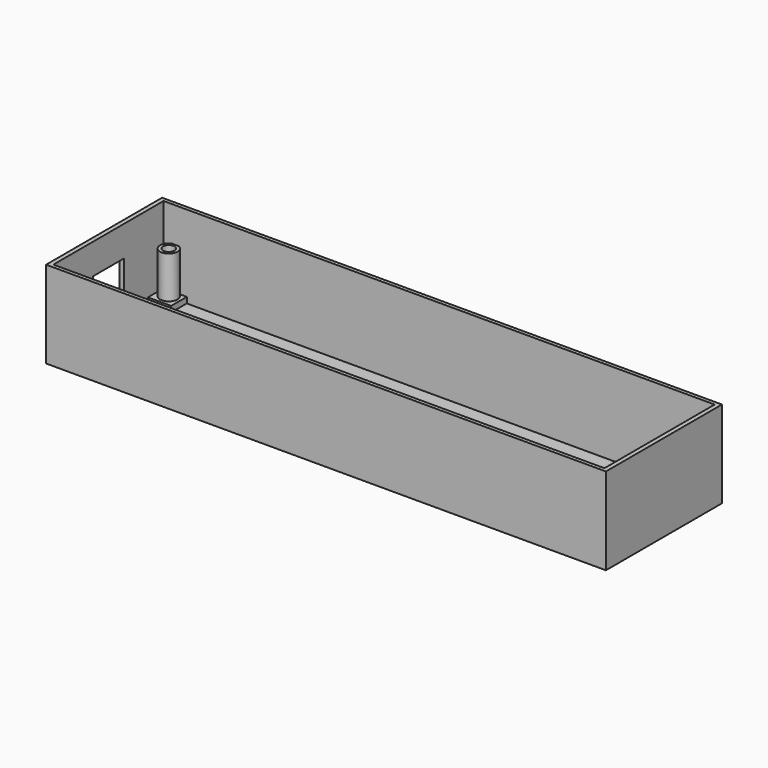
from build123d import *

# Parameters (mm, degrees)
SKETCH_W        = 193
SKETCH_H        = 50
PAD_DEPTH       = 1.5
SKETCH001_W     = 193
SKETCH001_H     = 50
SKETCH001_W_2   = 190
SKETCH001_H_2   = 47.5
PAD001_DEPTH    = 28.5
SKETCH002_W     = 8
SKETCH002_H     = 6.75
PAD002_DEPTH    = 2
SKETCH003_R     = 3
PAD003_DEPTH    = 14.5
SKETCH004_R     = 2
POCKET_DEPTH    = 5
SKETCH005_W     = 13.4
SKETCH005_H     = 12
POCKET001_DEPTH = 5


with BuildPart() as part:
    # Sketch → Pad (new body)
    with BuildSketch(Plane.XY):
        with Locations((96.5, 25)):
            Rectangle(SKETCH_W, SKETCH_H)
    extrude(amount=PAD_DEPTH)

    # Sketch001 (on Face6 of Pad) → Pad001 (join)
    with BuildSketch(Plane.XY.offset(1.5)):
        with Locations((96.5, 25)):
            Rectangle(SKETCH001_W, SKETCH001_H)
        with Locations((96.5, 25)):
            Rectangle(SKETCH001_W_2, SKETCH001_H_2, mode=Mode.SUBTRACT)
    extrude(amount=PAD001_DEPTH)

    # Sketch002 (on Face15 of Pad001) → Pad002 (join)
    with BuildSketch(Plane.XY.offset(1.5)):
        with Locations((5.5, 45.375)):
            Rectangle(SKETCH002_W, SKETCH002_H)
        with Locations((187.5, 45.375)):
            Rectangle(SKETCH002_W, SKETCH002_H)
        with Locations((187.5, 4.625)):
            Rectangle(SKETCH002_W, SKETCH002_H)
        with Locations((5.5, 4.625)):
            Rectangle(SKETCH002_W, SKETCH002_H)
    extrude(amount=PAD002_DEPTH)

    # Sketch003 (on Face19 of Pad002) → Pad003 (join)
    with BuildSketch(Plane.XY.offset(3.5)):
        with Locations((5.5, 46)):
            Circle(SKETCH003_R)
        with Locations((5.5, 4)):
            Circle(SKETCH003_R)
        with Locations((187.5, 46)):
            Circle(SKETCH003_R)
        with Locations((187.5, 4)):
            Circle(SKETCH003_R)
    extrude(amount=PAD003_DEPTH)

    # Sketch004 (on Face24 of Pad003) → Pocket (cut)
    with BuildSketch(Plane.XY.offset(18)):
        with Locations((187.5, 46)):
            Circle(SKETCH004_R)
        with Locations((187.5, 4)):
            Circle(SKETCH004_R)
        with Locations((5.5, 46)):
            Circle(SKETCH004_R)
        with Locations((5.5, 4)):
            Circle(SKETCH004_R)
    extrude(amount=-POCKET_DEPTH, mode=Mode.SUBTRACT)

    # Sketch005 (on Face7 of Pocket) → Pocket001 (cut)
    with BuildSketch(Plane(origin=(0, 0, 0), x_dir=(0, -1, 0), z_dir=(-1, 0, 0))):
        with Locations((-25, 13.5)):
            Rectangle(SKETCH005_W, SKETCH005_H)
    extrude(amount=-POCKET001_DEPTH, mode=Mode.SUBTRACT)


solid = part.part
